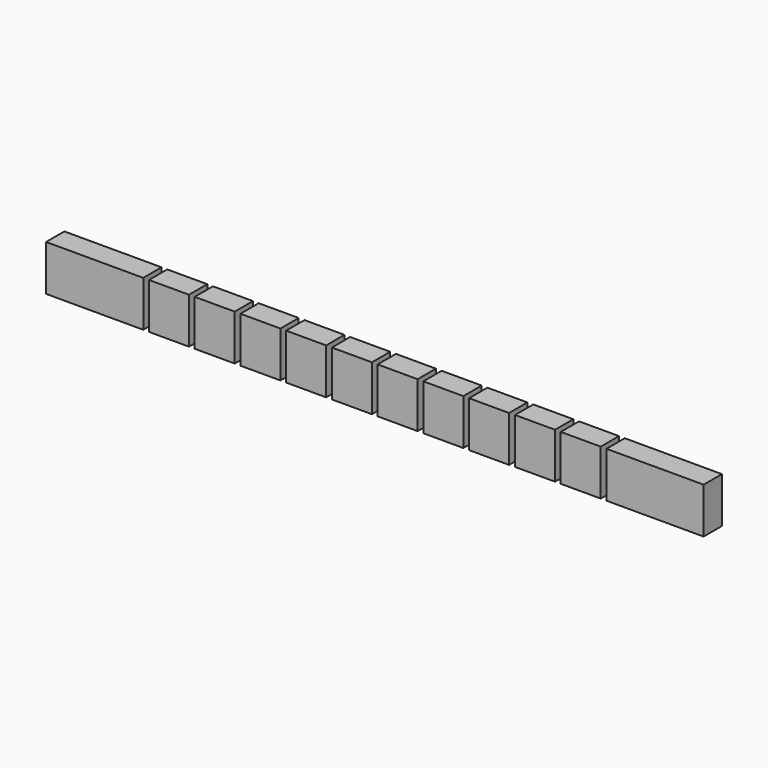
from build123d import *

# Parameters (mm, degrees)
F0_W     = 53.975
F0_H     = 12.7
F0_W_2   = 22.225
F1_DEPTH = 25.4


with BuildPart() as f1:
    # F0 (on Top) → F1 (new body)
    with BuildSketch(Plane.XY):
        with Locations((-99.471893, 27.683834)):
            Rectangle(F0_W, F0_H)
        with Locations((-58.196893, 27.683834)):
            Rectangle(F0_W_2, F0_H)
        with Locations((-32.796893, 27.683834)):
            Rectangle(F0_W_2, F0_H)
        with Locations((-7.396893, 27.683834)):
            Rectangle(F0_W_2, F0_H)
        with Locations((18.003107, 27.683834)):
            Rectangle(F0_W_2, F0_H)
        with Locations((43.403107, 27.683834)):
            Rectangle(F0_W_2, F0_H)
        with Locations((68.803107, 27.683834)):
            Rectangle(F0_W_2, F0_H)
        with Locations((94.203107, 27.683834)):
            Rectangle(F0_W_2, F0_H)
        with Locations((119.603107, 27.683834)):
            Rectangle(F0_W_2, F0_H)
        with Locations((145.000118, 27.82156)):
            Rectangle(F0_W_2, F0_H)
        with Locations((211.675118, 27.82156)):
            Rectangle(F0_W, F0_H)
        with Locations((170.400118, 27.82156)):
            Rectangle(F0_W_2, F0_H)
    extrude(amount=F1_DEPTH)


solid = f1.part
